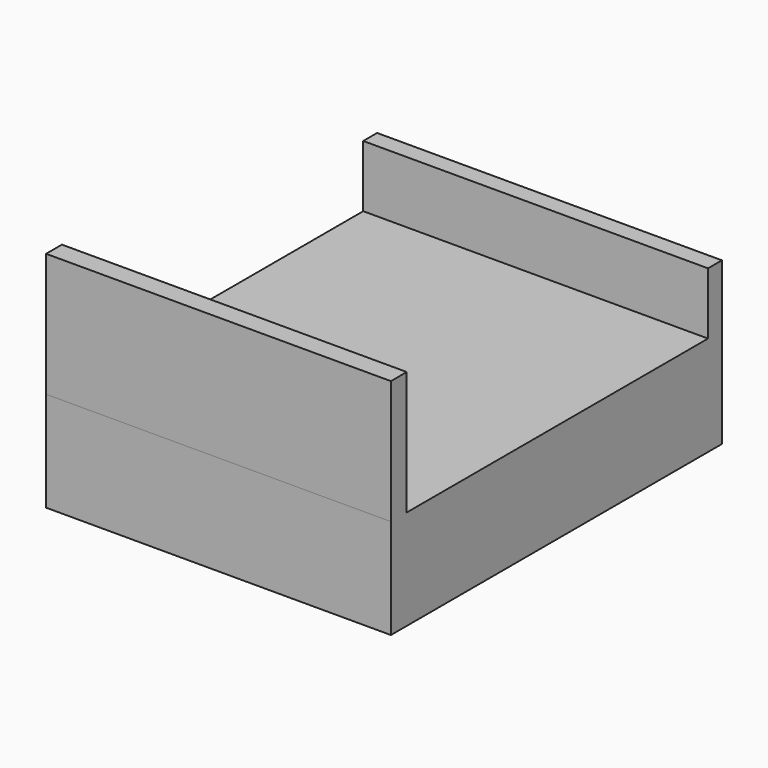
from build123d import *

# Parameters (mm, degrees)
F0_W     = 1841.5
F0_H     = 533.4
F1_DEPTH = 2209.8
F2_W     = 1841.5
F2_H     = 105.827327
F3_DEPTH = 660.4
F4_W     = 1841.5
F4_H     = 92.771217
F5_DEPTH = 330.2


with BuildPart() as f1:
    # F0 (on Front) → F1 (new body)
    with BuildSketch(Plane.XZ):
        Rectangle(F0_W, F0_H)
    extrude(amount=F1_DEPTH)

    # F2 (on face) → F3 (join)
    with BuildSketch(Plane.XY.offset(266.7)):
        with Locations((0, -2156.886336)):
            Rectangle(F2_W, F2_H)
    extrude(amount=F3_DEPTH)

    # F4 (on face) → F5 (join)
    with BuildSketch(Plane.XY.offset(266.7)):
        with Locations((0, -46.385608)):
            Rectangle(F4_W, F4_H)
    extrude(amount=F5_DEPTH)


solid = f1.part
